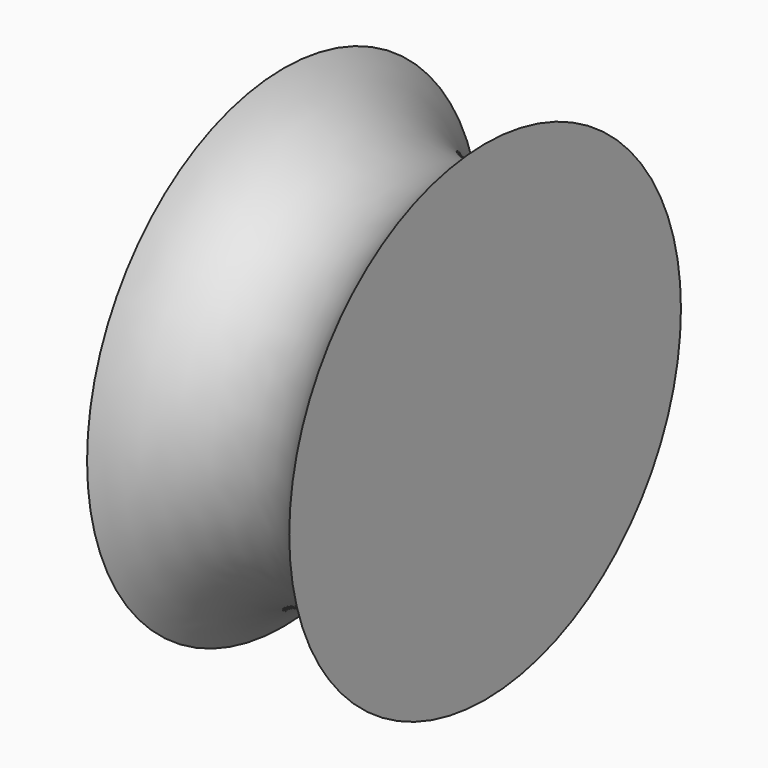
from build123d import *


with BuildPart() as f1:
    # F0 (on Top) → F1 (revolve)
    with BuildSketch(Plane.XY):
        with BuildLine():
            Line((-80.617055, 0), (0, 0))
            Line((0, 0), (0, 63.740894))
            ThreePointArc((0, 63.740894), (-26.294533, 48.805515), (-52.449651, 63.983716))
            Line((-52.449651, 63.983716), (-74.789315, 25.374947))
            Line((-74.789315, 25.374947), (-54.635055, 42.129695))
            Line((-54.635055, 42.129695), (-17.483218, 20.275677))
            Line((-17.483218, 20.275677), (-54.635055, 22.946723))
            Line((-54.635055, 22.946723), (-80.617055, 0))
        make_face()
    revolve(axis=Axis((-40.308528, 0, 0), (-1, 0, 0)))


solid = f1.part
